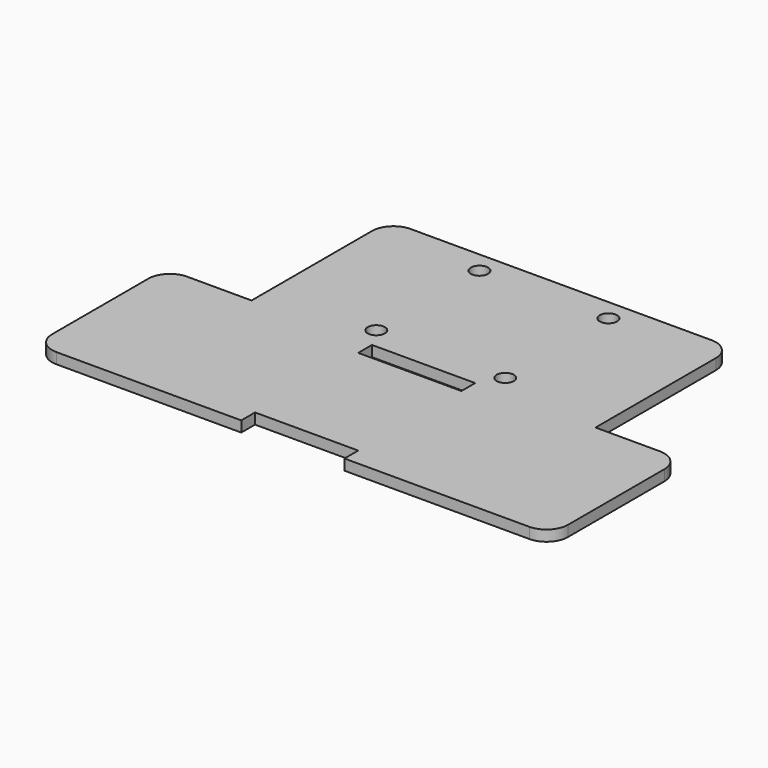
from build123d import *

# Parameters (mm, degrees)
F0_W     = 24
F0_H     = 4
F0_R     = 2
F1_DEPTH = 2.5


with BuildPart() as f1:
    # F0 (on Top) → F1 (new body)
    with BuildSketch(Plane.XY):
        with BuildLine():
            Line((-36.882881, 6.197646), (-51.882881, 6.197646))
            ThreePointArc((-51.882881, 6.197646), (-55.418415, 4.73318), (-56.882881, 1.197646))
            Line((-56.882881, 1.197646), (-56.882881, -26.802354))
            ThreePointArc((-56.882881, -26.802354), (-55.418415, -30.337887), (-51.882881, -31.802354))
            Line((-51.882881, -31.802354), (-8.882881, -31.802354))
            Line((-8.882881, -31.802354), (-8.882881, -27.802354))
            Line((-8.882881, -27.802354), (15.117119, -27.802354))
            Line((15.117119, -27.802354), (15.117119, -31.802354))
            Line((15.117119, -31.802354), (58.117119, -31.802354))
            ThreePointArc((58.117119, -31.802354), (61.652653, -30.337887), (63.117119, -26.802354))
            Line((63.117119, -26.802354), (63.117119, 1.197646))
            ThreePointArc((63.117119, 1.197646), (61.652653, 4.73318), (58.117119, 6.197646))
            Line((58.117119, 6.197646), (43.117119, 6.197646))
            Line((43.117119, 6.197646), (23.117119, 6.197646))
            Line((23.117119, 6.197646), (23.117119, 41.197646))
            ThreePointArc((23.117119, 41.197646), (21.652653, 44.73318), (18.117119, 46.197646))
            Line((18.117119, 46.197646), (-11.882881, 46.197646))
            ThreePointArc((-11.882881, 46.197646), (-15.418415, 44.73318), (-16.882881, 41.197646))
            Line((-16.882881, 41.197646), (-16.882881, 6.197646))
            Line((-16.882881, 6.197646), (-36.882881, 6.197646))
        make_face()
        with Locations((3.117119, 4.197646)):
            Rectangle(F0_W, F0_H, mode=Mode.SUBTRACT)
        with Locations((-11.882881, 11.197646)):
            Circle(F0_R, mode=Mode.SUBTRACT)
        with Locations((-11.882881, 41.197646)):
            Circle(F0_R, mode=Mode.SUBTRACT)
        with Locations((18.117119, 11.197646)):
            Circle(F0_R, mode=Mode.SUBTRACT)
        with Locations((18.117119, 41.197646)):
            Circle(F0_R, mode=Mode.SUBTRACT)
        with BuildLine():
            Line((-36.882881, 41.197646), (-36.882881, 6.197646))
            Line((-36.882881, 6.197646), (-16.882881, 6.197646))
            Line((-16.882881, 6.197646), (-16.882881, 41.197646))
            ThreePointArc((-16.882881, 41.197646), (-15.418415, 44.73318), (-11.882881, 46.197646))
            Line((-11.882881, 46.197646), (-16.882881, 46.197646))
            Line((-16.882881, 46.197646), (-31.882881, 46.197646))
            ThreePointArc((-31.882881, 46.197646), (-35.418415, 44.73318), (-36.882881, 41.197646))
        make_face()
        with BuildLine():
            Line((23.117119, 46.197646), (18.117119, 46.197646))
            ThreePointArc((18.117119, 46.197646), (21.652653, 44.73318), (23.117119, 41.197646))
            Line((23.117119, 41.197646), (23.117119, 6.197646))
            Line((23.117119, 6.197646), (43.117119, 6.197646))
            Line((43.117119, 6.197646), (43.117119, 41.197646))
            ThreePointArc((43.117119, 41.197646), (41.652653, 44.73318), (38.117119, 46.197646))
            Line((38.117119, 46.197646), (23.117119, 46.197646))
        make_face()
    extrude(amount=F1_DEPTH)


solid = f1.part
